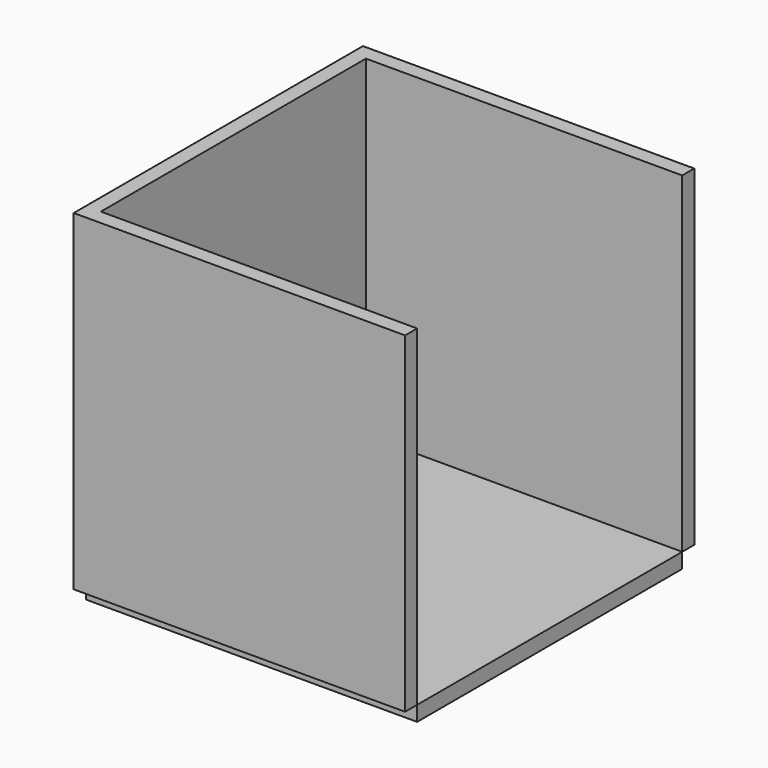
from build123d import *

# Parameters (mm, degrees)
BOX001_W     = 2
BOX001_H     = 44
BOX001_DEPTH = 44
BOX002_W     = 2
BOX002_H     = 44
BOX002_DEPTH = 44
BOX003_W     = 2
BOX003_H     = 44
BOX003_DEPTH = 44
BOX_W        = 2
BOX_H        = 44
BOX_DEPTH    = 44


with BuildPart() as cubo001:
    # Box001 → Box001 (new body)
    with BuildSketch(Plane(origin=(0, 0, 0), x_dir=(0, -1, 0), z_dir=(0, 0, 1))):
        with Locations((1, 22)):
            Rectangle(BOX001_W, BOX001_H)
    extrude(amount=BOX001_DEPTH)


with BuildPart() as cubo002:
    # Box002 → Box002 (new body)
    with BuildSketch(Plane(origin=(0, 46, 0), x_dir=(0, -1, 0), z_dir=(0, 0, 1))):
        with Locations((1, 22)):
            Rectangle(BOX002_W, BOX002_H)
    extrude(amount=BOX002_DEPTH)


with BuildPart() as cubo003:
    # Box003 → Box003 (new body)
    with BuildSketch(Plane(origin=(0, 0, 0), x_dir=(0, 0, -1), z_dir=(1, 0, 0))):
        with Locations((1, 22)):
            Rectangle(BOX003_W, BOX003_H)
    extrude(amount=BOX003_DEPTH)


with BuildPart() as fusion:
    # Box → Box (new body)
    with BuildSketch(Plane.XY):
        with Locations((1, 22)):
            Rectangle(BOX_W, BOX_H)
    extrude(amount=BOX_DEPTH)

    # Fusion: union Cubo001, Cubo002, Cubo003
    add(cubo001.part)
    add(cubo002.part)
    add(cubo003.part)


solid = fusion.part
